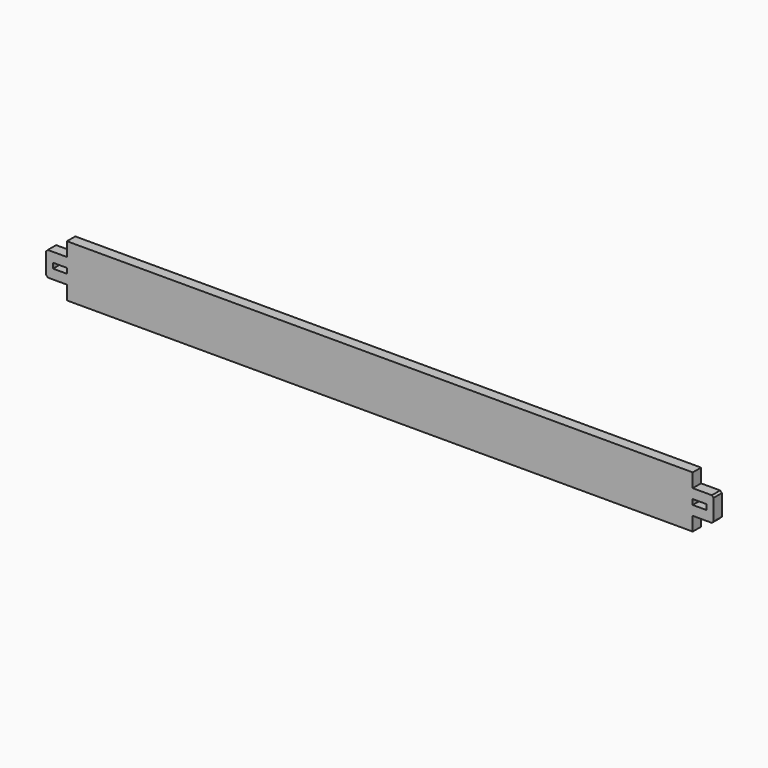
from build123d import *

# Parameters (mm, degrees)
F1_DEPTH      = 19.05
F1_DEPTH_BACK = 19.05
F2_SIZE       = 6.35
F3_W          = 50.8
F3_H          = 19.05
F4_DEPTH      = 38.101


with BuildPart() as f1:
    # F0 (on Front) → F1 (new body, two sides)
    with BuildSketch(Plane.XZ) as f1_sk:
        Polygon((1143, 95.25), (-1143, 95.25), (-1143, 44.45), (-1219.2, 44.45), (-1219.2, -44.45), (-1143, -44.45), (-1143, -95.25), (1143, -95.25), (1143, -44.45), (1219.2, -44.45), (1219.2, 44.45), (1143, 44.45), align=None)
    extrude(amount=F1_DEPTH)
    extrude(f1_sk.sketch, amount=-F1_DEPTH_BACK)

    # F2
    f2_edges = [f1.edges().sort_by_distance(p)[0] for p in [
        (1219.2, 0, 44.45),
        (1219.2, 0, -44.45),
        (-1219.2, 0, 44.45),
        (-1219.2, 0, -44.45),
    ]]
    chamfer(f2_edges, length=F2_SIZE)

    # F3 (on face) → F4 (cut, through all)
    with BuildSketch(Plane.XZ.offset(19.05)):
        with Locations((1168.4, 0)):
            Rectangle(F3_W, F3_H)
        with Locations((-1168.4, 0)):
            Rectangle(F3_W, F3_H)
    extrude(amount=-F4_DEPTH, mode=Mode.SUBTRACT)


solid = f1.part
